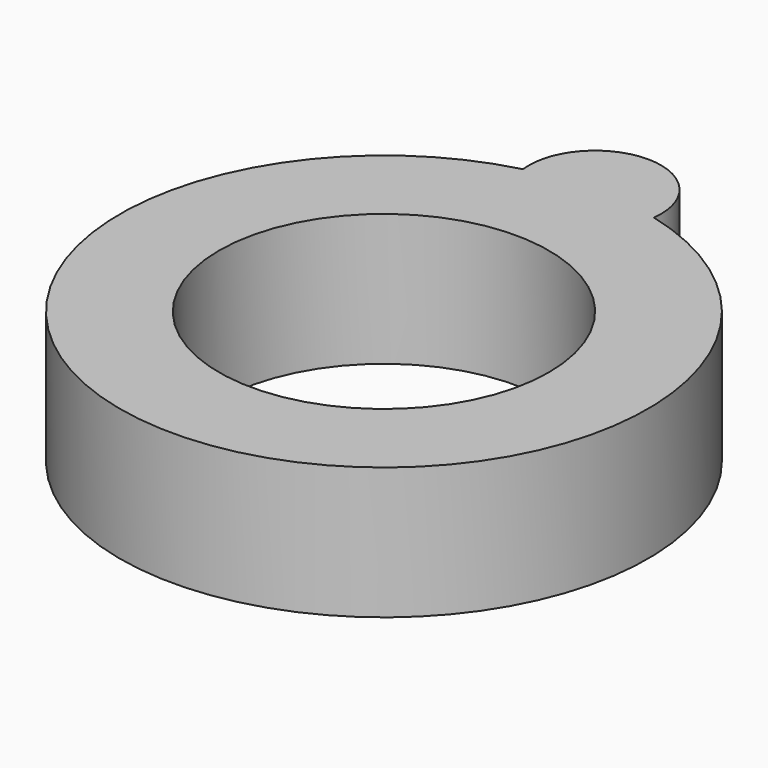
from build123d import *

# Parameters (mm, degrees)
F0_R     = 20
F1_DEPTH = 10
F2_R     = 12.5
F3_DEPTH = 10
F4_R     = 5
F5_DEPTH = 10


with BuildPart() as f1:
    # F0 (on Top) → F1 (new body)
    with BuildSketch(Plane.XY):
        Circle(F0_R)
    extrude(amount=F1_DEPTH)

    # F2 (on face) → F3 (cut)
    with BuildSketch(Plane.XY.offset(10)):
        Circle(F2_R)
    extrude(amount=-F3_DEPTH, mode=Mode.SUBTRACT)

    # F4 (on face) → F5 (join, through all)
    with BuildSketch(Plane.XY.offset(10)):
        with Locations((0, 20)):
            Circle(F4_R)
    extrude(amount=-F5_DEPTH)


solid = f1.part
